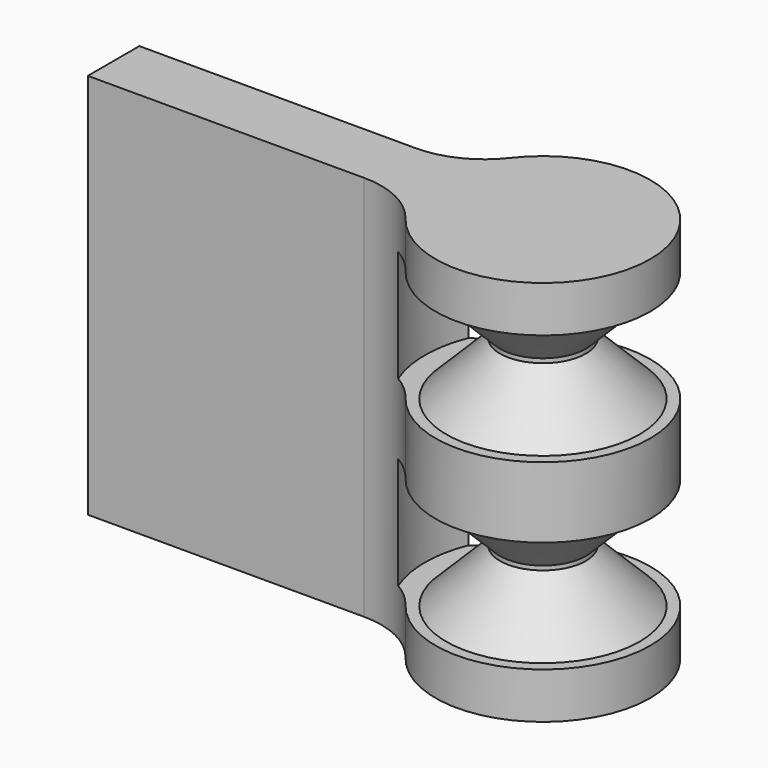
from build123d import *

# Parameters (mm, degrees)
PAD001_DEPTH  = 9
SKETCH005_R   = 5.5
SKETCH005_R_2 = 2
POCKET_DEPTH  = 2.6
CHAMFER_SIZE  = 2.5


with BuildPart() as part:
    # Sketch003 → Pad001 (new body, symmetric)
    with BuildSketch(Plane.XY):
        with BuildLine():
            ThreePointArc((-3.9577139867, -3.0555686868), (5, -2.4e-09), (-3.9577139837, 3.0555686906))
            ThreePointArc((-7.1239026623, 1.5), (-5.3600614281, 1.9098939553), (-3.9577139838, 3.0555686907))
            Line((-7.1239026623, 1.5), (-20, 1.5))
            Line((-20, -1.5), (-20, 1.5))
            Line((-20, -1.5), (-7.1239026639, -1.5))
            ThreePointArc((-3.9577139867, -3.0555686868), (-5.360061431, -1.9098939539), (-7.1239026639, -1.5))
        make_face()
    extrude(amount=PAD001_DEPTH, both=True)

    # Sketch005 → Pocket (cut, symmetric)
    with BuildSketch(Plane.XY.offset(4.25)):
        Circle(SKETCH005_R)
        Circle(SKETCH005_R_2, mode=Mode.SUBTRACT)
    pocket = extrude(amount=POCKET_DEPTH, both=True, mode=Mode.SUBTRACT)

    # Mirrored: Pocket across XY
    add(pocket.mirror(Plane.XY), mode=Mode.SUBTRACT)

    # Chamfer
    chamfer_edges = [part.edges().sort_by_distance(p)[0] for p in [
        (-2, 0, -6.85),
        (-2, 0, 1.65),
        (-2, 0, 6.85),
        (-2, 0, -1.65),
    ]]
    chamfer(chamfer_edges, length=CHAMFER_SIZE)


solid = part.part
